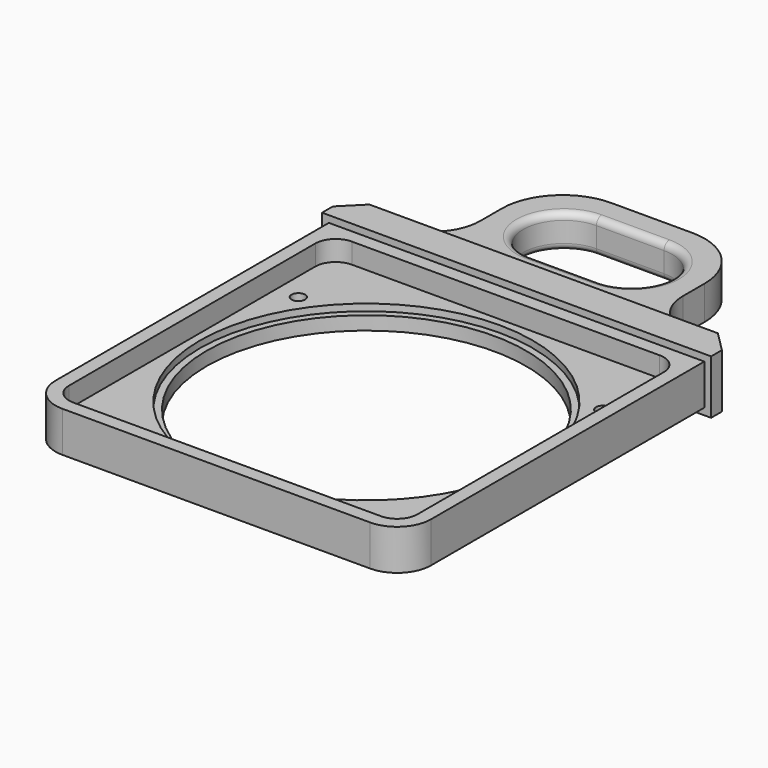
from build123d import *

# Parameters (mm, degrees)
SKETCH_W        = 55.5
SKETCH_H        = 55.5
SKETCH_R        = 24.6
PAD_DEPTH       = 6
SKETCH001_W     = 57.5
SKETCH001_H     = 8
PAD001_DEPTH    = 5
SKETCH002_W     = 30
SKETCH002_H     = 5
PAD002_DEPTH    = 20
FILLET_R        = 5
POCKET_DEPTH    = 6
FILLET001_R     = 9
FILLET002_R     = 7
CHAMFER_SIZE    = 3
SKETCH004_R     = 24.6
SKETCH004_R_2   = 23.6
PAD003_DEPTH    = 2
SKETCH005_W     = 51.5
SKETCH005_H     = 51.5
POCKET001_DEPTH = 3
SKETCH006_R     = 1
POCKET002_DEPTH = 6
FILLET003_R     = 1
FILLET004_R     = 1
FILLET005_R     = 3


with BuildPart() as part:
    # Sketch → Pad (new body)
    with BuildSketch(Plane.XY):
        Rectangle(SKETCH_W, SKETCH_H)
        Circle(SKETCH_R, mode=Mode.SUBTRACT)
    extrude(amount=PAD_DEPTH)

    # Sketch001 → Pad001 (new body)
    with BuildSketch(Plane(origin=(0, 27.75, 0), x_dir=(-1, 0, 0), z_dir=(0, 1, 0))):
        with Locations((0, 3)):
            Rectangle(SKETCH001_W, SKETCH001_H)
    extrude(amount=PAD001_DEPTH)

    # Sketch002 → Pad002 (new body)
    with BuildSketch(Plane(origin=(0, 32.75, 0), x_dir=(-1, 0, 0), z_dir=(0, 1, 0))):
        with Locations((0, 3)):
            Rectangle(SKETCH002_W, SKETCH002_H)
    extrude(amount=PAD002_DEPTH)

    # Fillet
    fillet_edges = [part.edges().sort_by_distance(p)[0] for p in [
        (-27.75, -27.75, 3),
        (27.75, -27.75, 3),
    ]]
    fillet(fillet_edges, radius=FILLET_R)

    # Sketch003 → Pocket (cut)
    with BuildSketch(Plane(origin=(0, 0, 0.5), x_dir=(1, 0, 0), z_dir=(0, 0, -1))):
        with BuildLine():
            ThreePointArc((-5, -36.75), (-11, -42.75), (-5, -48.75))
            Line((-5, -48.75), (5, -48.75))
            ThreePointArc((5, -48.75), (11, -42.75), (5, -36.75))
            Line((-5, -36.75), (5, -36.75))
        make_face()
    extrude(amount=-POCKET_DEPTH, mode=Mode.SUBTRACT)

    # Fillet001
    fillet001_edges = [part.edges().sort_by_distance(p)[0] for p in [
        (15, 52.75, 3),
        (-15, 52.75, 3),
    ]]
    fillet(fillet001_edges, radius=FILLET001_R)

    # Fillet002
    fillet002_edges = [part.edges().sort_by_distance(p)[0] for p in [
        (15, 32.75, 3),
        (-15, 32.75, 3),
    ]]
    fillet(fillet002_edges, radius=FILLET002_R)

    # Chamfer
    chamfer_edges = [part.edges().sort_by_distance(p)[0] for p in [
        (-28.75, 32.75, 3),
        (28.75, 32.75, 3),
    ]]
    chamfer(chamfer_edges, length=CHAMFER_SIZE)

    # Sketch004 → Pad003 (new body)
    with BuildSketch(Plane(origin=(0, 0, 0), x_dir=(1, 0, 0), z_dir=(0, 0, -1))):
        Circle(SKETCH004_R)
        Circle(SKETCH004_R_2, mode=Mode.SUBTRACT)
    extrude(amount=-PAD003_DEPTH)

    # Sketch005 → Pocket001 (cut)
    with BuildSketch(Plane.XY.offset(6)):
        Rectangle(SKETCH005_W, SKETCH005_H)
    extrude(amount=-POCKET001_DEPTH, mode=Mode.SUBTRACT)

    # Sketch006 → Pocket002 (cut)
    with BuildSketch(Plane.XY.offset(3)):
        with Locations((-22.5, 15.549035)):
            Circle(SKETCH006_R)
        with Locations((22.5, 15.549035)):
            Circle(SKETCH006_R)
        with Locations((-15.687316, -22.403808)):
            Circle(SKETCH006_R)
    extrude(amount=-POCKET002_DEPTH, mode=Mode.SUBTRACT)

    # Fillet003
    fillet003_edges = [part.edges().sort_by_distance(p)[0] for p in [
        (0, 48.75, 5.5),
    ]]
    fillet(fillet003_edges, radius=FILLET003_R)

    # Fillet004
    fillet004_edges = [part.edges().sort_by_distance(p)[0] for p in [
        (0, 36.75, 0.5),
    ]]
    fillet(fillet004_edges, radius=FILLET004_R)

    # Fillet005
    fillet005_edges = [part.edges().sort_by_distance(p)[0] for p in [
        (-25.75, -25.75, 4.5),
        (25.75, -25.75, 4.5),
        (25.75, 25.75, 4.5),
        (-25.75, 25.75, 4.5),
    ]]
    fillet(fillet005_edges, radius=FILLET005_R)


solid = part.part
